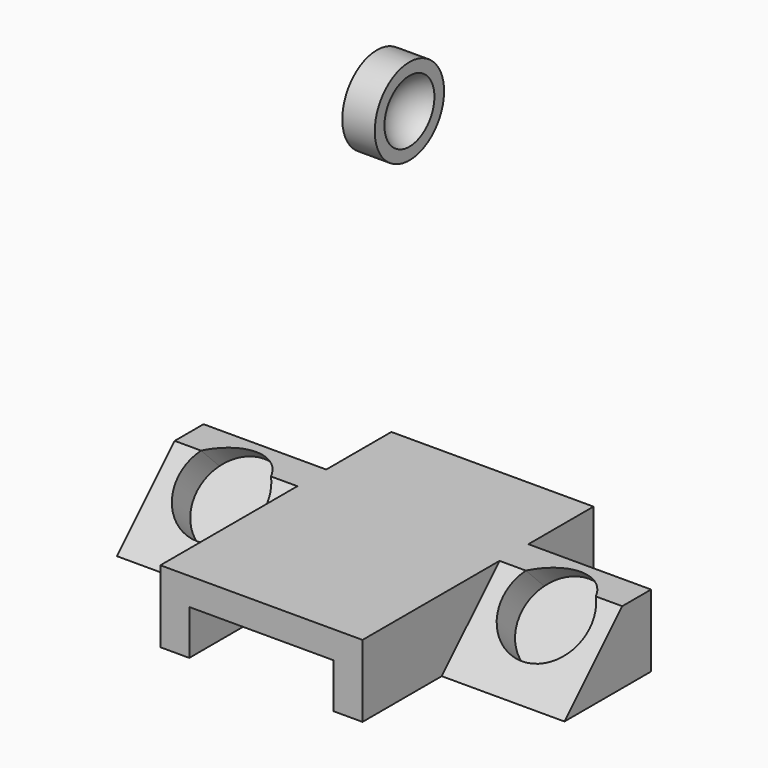
from build123d import *

# Parameters (mm, degrees)
F1_DEPTH  = 10
F2_W      = 20
F2_H      = 6.2118896035
F3_DEPTH  = 40.001
F5_DEPTH  = 17
F7_DEPTH  = 4.5
F9_DEPTH  = 17
F11_DEPTH = 4.5


with BuildPart() as f1:
    # F0 (on Top) → F1 (new body)
    with BuildSketch(Plane.XY):
        Polygon((14, 8.7225403264), (14, 20), (-14, 20), (-14, 8.7225403264), (-31, 8.7225403264), (-31, -6.2774596736), (-14, -6.2774596736), (-14, -20), (14, -20), (14, -6.2774596736), (31, -6.2774596736), (31, 8.7225403264), align=None)
    extrude(amount=F1_DEPTH)

    # F2 (on face) → F3 (cut, through all)
    with BuildSketch(Plane.XZ.offset(20)):
        with Locations((0, 3.1059448017)):
            Rectangle(F2_W, F2_H)
    extrude(amount=-F3_DEPTH, mode=Mode.SUBTRACT)

    # F4 (on face) → F5 (cut)
    with BuildSketch(Plane.YZ.offset(31)):
        Polygon((-6.2774596736, 10), (-6.2774596736, 0), (1.2225403264, 7.5), (3.7225403264, 10), align=None)
    extrude(amount=-F5_DEPTH, mode=Mode.SUBTRACT)

    # F6 (on face) → F7 (cut)
    with BuildSketch(Plane(origin=(0, -3.1387298368, 3.1387298368), x_dir=(1, 0, 0), z_dir=(0, -0.7071067812, 0.7071067812))):
        with BuildLine():
            ThreePointArc((28.5, 6.1677713199), (28.2046514458, 8.0270593239), (27.3476827061, 9.7033013199))
            Line((27.3476827061, 9.7033013199), (17.6523172939, 9.7033013199))
            ThreePointArc((17.6523172939, 9.7033013199), (20.640711996, 0.4631198741), (28.5, 6.1677713199))
        make_face()
        with BuildLine():
            Line((17.6523172939, 9.7033013199), (27.3476827061, 9.7033013199))
            ThreePointArc((27.3476827061, 9.7033013199), (22.5, 12.1677713199), (17.6523172939, 9.7033013199))
        make_face()
    extrude(amount=-F7_DEPTH, mode=Mode.SUBTRACT)

    # F8 (on face) → F9 (cut)
    with BuildSketch(Plane(origin=(-31, 0, 0), x_dir=(0, -1, 0), z_dir=(-1, 0, 0))):
        Polygon((-1.2225403264, 7.5), (6.2774596736, 0), (6.2774596736, 10), (-3.7225403264, 10), align=None)
    extrude(amount=-F9_DEPTH, mode=Mode.SUBTRACT)

    # F10 (on face) → F11 (cut)
    with BuildSketch(Plane(origin=(0, -3.1387298368, 3.1387298368), x_dir=(1, 0, 0), z_dir=(0, -0.7071067812, 0.7071067812))):
        with BuildLine():
            Line((-27.3476827061, 9.7033013199), (-17.6523172939, 9.7033013199))
            ThreePointArc((-17.6523172939, 9.7033013199), (-22.5, 12.1677713199), (-27.3476827061, 9.7033013199))
        make_face()
        with BuildLine():
            ThreePointArc((-27.3476827061, 9.7033013199), (-24.359288004, 0.4631198741), (-16.5, 6.1677713199))
            ThreePointArc((-16.5, 6.1677713199), (-16.7953485542, 8.0270593239), (-17.6523172939, 9.7033013199))
            Line((-17.6523172939, 9.7033013199), (-27.3476827061, 9.7033013199))
        make_face()
    extrude(amount=-F11_DEPTH, mode=Mode.SUBTRACT)


with BuildPart() as f13:
    # F12 (on Front) → F13 (revolve)
    with BuildSketch(Plane.XZ):
        with BuildLine():
            Line((4.5, 69.2641640902), (0, 69.2641640902))
            Line((0, 69.2641640902), (0, 63.2641640902))
            Line((0, 63.2641640902), (2, 63.2641640902))
            ThreePointArc((2, 63.2641640902), (2.6698729811, 65.7641640902), (4.5, 67.5942911091))
            Line((4.5, 67.5942911091), (4.5, 69.2641640902))
        make_face()
    revolve(axis=Axis((1, 0, 63.2641640902), (1, 0, 0)))


solid = Compound([f1.part, f13.part])
